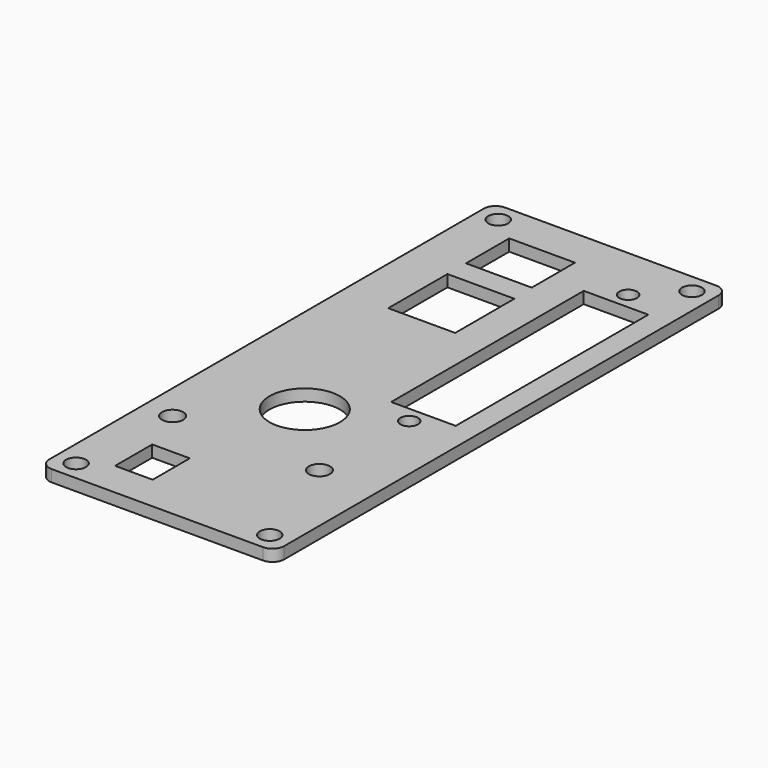
from build123d import *

# Parameters (mm, degrees)
SKETCH_W      = 40
SKETCH_H      = 96.5
PAD_DEPTH     = 2
SKETCH001_R   = 1.7
SKETCH001_R_2 = 1.5
SKETCH001_R_3 = 6
SKETCH001_R_4 = 1.8
SKETCH001_W   = 11
SKETCH001_H   = 41
SKETCH001_W_2 = 11.2
SKETCH001_H_2 = 9.2
SKETCH001_W_3 = 11.4
SKETCH001_H_3 = 12.6
SKETCH001_W_4 = 6.4
SKETCH001_H_4 = 7.9
POCKET_DEPTH  = 5
FILLET_R      = 2
FILLET001_R   = 2
FILLET002_R   = 2
FILLET003_R   = 2


with BuildPart() as part:
    # Sketch → Pad (new body)
    with BuildSketch(Plane.XY):
        Rectangle(SKETCH_W, SKETCH_H)
    extrude(amount=PAD_DEPTH)

    # Sketch001 (on Face6 of Pad) → Pocket (cut)
    with BuildSketch(Plane.XY.offset(2)):
        with Locations((-16.5, 44.95)):
            Circle(SKETCH001_R)
        with Locations((16.5, 44.95)):
            Circle(SKETCH001_R)
        with Locations((-16.5, -44.95)):
            Circle(SKETCH001_R)
        with Locations((16.5, -44.95)):
            Circle(SKETCH001_R)
        with Locations((10.5, 38.85)):
            Circle(SKETCH001_R_2)
        with Locations((10.5, -7.75)):
            Circle(SKETCH001_R_2)
        with Locations((-2.5, -13.75)):
            Circle(SKETCH001_R_3)
        with Locations((-15, -26.25)):
            Circle(SKETCH001_R_4)
        with Locations((10, -26.25)):
            Circle(SKETCH001_R_4)
        with Locations((10.68, 15.55)):
            Rectangle(SKETCH001_W, SKETCH001_H)
        with Locations((-6.4, 37.05754)):
            Rectangle(SKETCH001_W_2, SKETCH001_H_2)
        with Locations((-6.3, 22.205288)):
            Rectangle(SKETCH001_W_3, SKETCH001_H_3)
        with Locations((-8.8, -38.3)):
            Rectangle(SKETCH001_W_4, SKETCH001_H_4)
    extrude(amount=-POCKET_DEPTH, mode=Mode.SUBTRACT)

    # Fillet
    fillet_edges = [part.edges().sort_by_distance(p)[0] for p in [
        (-20, 48.25, 1),
    ]]
    fillet(fillet_edges, radius=FILLET_R)

    # Fillet001
    fillet001_edges = [part.edges().sort_by_distance(p)[0] for p in [
        (20, 48.25, 1),
    ]]
    fillet(fillet001_edges, radius=FILLET001_R)

    # Fillet002
    fillet002_edges = [part.edges().sort_by_distance(p)[0] for p in [
        (-20, -48.25, 1),
    ]]
    fillet(fillet002_edges, radius=FILLET002_R)

    # Fillet003
    fillet003_edges = [part.edges().sort_by_distance(p)[0] for p in [
        (20, -48.25, 1),
    ]]
    fillet(fillet003_edges, radius=FILLET003_R)


solid = part.part
